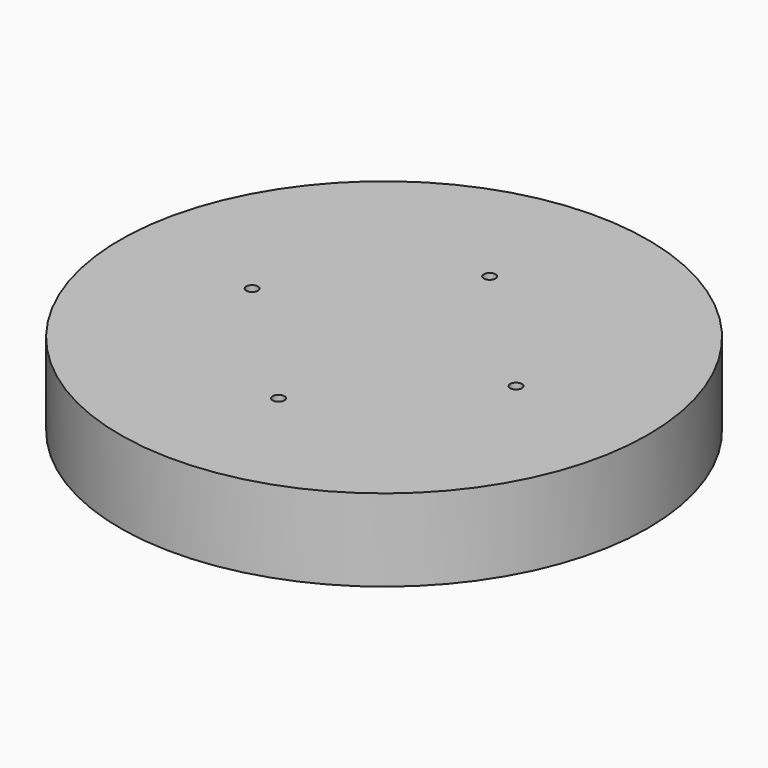
from build123d import *

# Parameters (mm, degrees)
F0_R     = 285.75
F0_R_2   = 6.35
F1_DEPTH = 88.9
F2_T     = -12.7
F3_R     = 210.508392
F4_DEPTH = 161.544


with BuildPart() as f1:
    # F0 (on Top) → F1 (new body)
    with BuildSketch(Plane.XY):
        Circle(F0_R)
        with Locations((0, -142.875)):
            Circle(F0_R_2, mode=Mode.SUBTRACT)
        with Locations((-142.875, 0)):
            Circle(F0_R_2, mode=Mode.SUBTRACT)
        with Locations((142.875, 0)):
            Circle(F0_R_2, mode=Mode.SUBTRACT)
        with Locations((0, 142.875)):
            Circle(F0_R_2, mode=Mode.SUBTRACT)
    extrude(amount=F1_DEPTH)

    # F2
    f2_openings = [f1.faces().sort_by_distance(p)[0] for p in [
        (0, 0, 0),
    ]]
    offset(amount=F2_T, openings=f2_openings)

    # F3 (on face) → F4 (cut)
    with BuildSketch(Plane(origin=(0, 0, 76.2), x_dir=(1, 0, 0), z_dir=(0, 0, -1))):
        with Locations((25.252376, -5.049415)):
            Circle(F3_R)
    extrude(amount=F4_DEPTH, mode=Mode.SUBTRACT)


solid = f1.part
